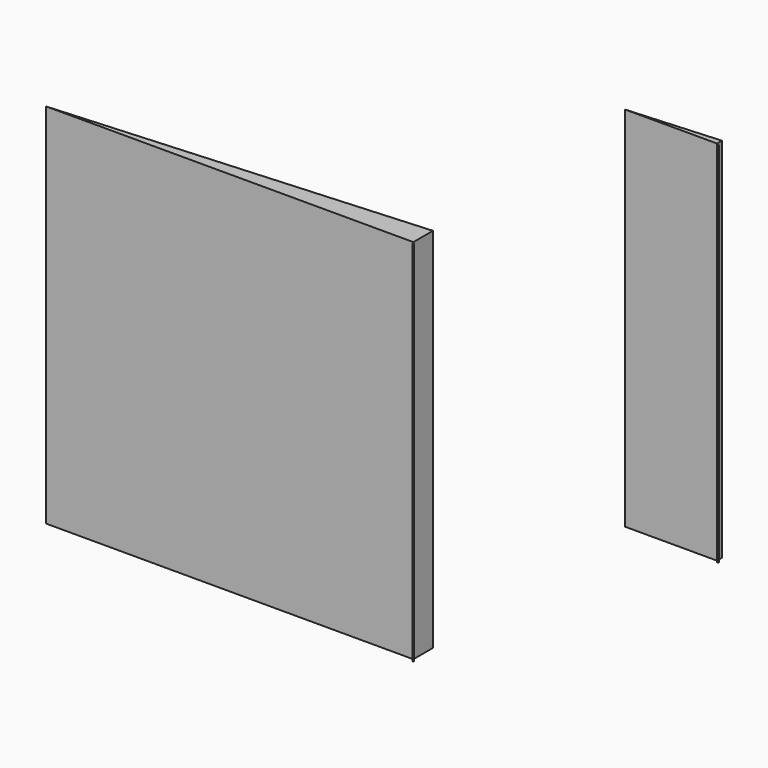
from build123d import *

# Parameters (mm, degrees)
F0_R     = 0.79375
F1_DEPTH = 381


with BuildPart() as f1:
    # F0 (on Top) → F1 (new body)
    with BuildSketch(Plane.XY):
        Polygon((213.69999, -18.203419), (-167.30001, -43.603419), (213.69999, -43.603419), align=None)
        Polygon((297.758271, 251.471002), (202.508271, 245.121002), (297.758271, 245.121002), align=None)
        with Locations((215.674788, -46.216223)):
            Circle(F0_R)
        with Locations((300.014734, 243.30698)):
            Circle(F0_R)
    extrude(amount=F1_DEPTH)


solid = f1.part
